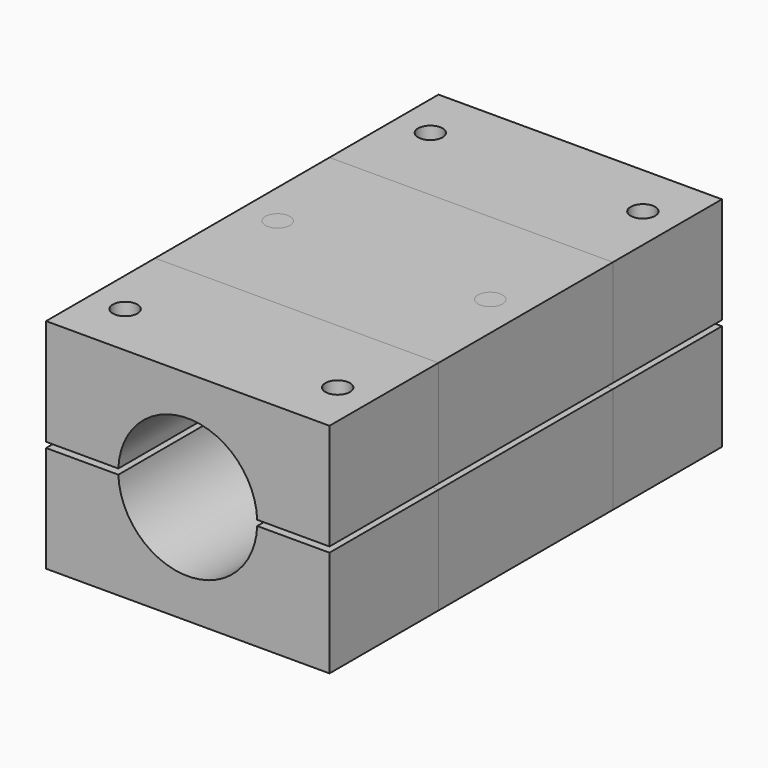
from build123d import *

# Parameters (mm, degrees)
SKETCH_W             = 52
SKETCH_H             = 90
PAD_DEPTH            = 40
SKETCH001_R          = 12.75
POCKET_DEPTH         = 45.001
POCKET_DEPTH_BACK    = -45.001
SKETCH002_W          = 60
SKETCH002_H          = 1
POCKET001_DEPTH      = 45.001
POCKET001_DEPTH_BACK = -45.001
SKETCH003_R          = 2.25
POCKET002_DEPTH      = 0.001
POCKET002_DEPTH_BACK = -40.001
SKETCH004_W          = 52
SKETCH004_H          = 40
PAD001_DEPTH         = 40
SKETCH005_R          = 12.75
POCKET003_DEPTH      = 20.001
POCKET003_DEPTH_BACK = -20.001
SKETCH006_W          = 60
SKETCH006_H          = 1
POCKET004_DEPTH      = 20.001
POCKET004_DEPTH_BACK = -20.001
SKETCH007_R          = 2.25
POCKET005_DEPTH      = 0.001
POCKET005_DEPTH_BACK = -40.001


with BuildPart() as body:
    # Sketch → Pad (new body)
    with BuildSketch(Plane.XY):
        Rectangle(SKETCH_W, SKETCH_H)
    extrude(amount=PAD_DEPTH)

    # Sketch001 → Pocket (cut, two sides)
    with BuildSketch(Plane.XZ) as pocket_sk:
        with Locations((0, 20)):
            Circle(SKETCH001_R)
    extrude(amount=-POCKET_DEPTH, mode=Mode.SUBTRACT)
    extrude(pocket_sk.sketch, amount=-POCKET_DEPTH_BACK, mode=Mode.SUBTRACT)

    # Sketch002 → Pocket001 (cut, two sides)
    with BuildSketch(Plane.XZ) as pocket001_sk:
        with Locations((0, 20)):
            Rectangle(SKETCH002_W, SKETCH002_H)
    extrude(amount=-POCKET001_DEPTH, mode=Mode.SUBTRACT)
    extrude(pocket001_sk.sketch, amount=-POCKET001_DEPTH_BACK, mode=Mode.SUBTRACT)

    # Sketch003 → Pocket002 (cut, two sides)
    with BuildSketch(Plane.XY) as pocket002_sk:
        with Locations((-19.5, 35)):
            Circle(SKETCH003_R)
        with Locations((19.5, 35)):
            Circle(SKETCH003_R)
        with Locations((19.5, -35)):
            Circle(SKETCH003_R)
        with Locations((-19.5, -35)):
            Circle(SKETCH003_R)
    extrude(amount=-POCKET002_DEPTH, mode=Mode.SUBTRACT)
    extrude(pocket002_sk.sketch, amount=-POCKET002_DEPTH_BACK, mode=Mode.SUBTRACT)


with BuildPart() as body001:
    # Sketch004 → Pad001 (new body)
    with BuildSketch(Plane.XY):
        Rectangle(SKETCH004_W, SKETCH004_H)
    extrude(amount=PAD001_DEPTH)

    # Sketch005 → Pocket003 (cut, two sides)
    with BuildSketch(Plane.XZ) as pocket003_sk:
        with Locations((0, 20)):
            Circle(SKETCH005_R)
    extrude(amount=-POCKET003_DEPTH, mode=Mode.SUBTRACT)
    extrude(pocket003_sk.sketch, amount=-POCKET003_DEPTH_BACK, mode=Mode.SUBTRACT)

    # Sketch006 → Pocket004 (cut, two sides)
    with BuildSketch(Plane.XZ) as pocket004_sk:
        with Locations((0, 20)):
            Rectangle(SKETCH006_W, SKETCH006_H)
    extrude(amount=-POCKET004_DEPTH, mode=Mode.SUBTRACT)
    extrude(pocket004_sk.sketch, amount=-POCKET004_DEPTH_BACK, mode=Mode.SUBTRACT)

    # Sketch007 → Pocket005 (cut, two sides)
    with BuildSketch(Plane.XY) as pocket005_sk:
        with Locations((-19.5, 0)):
            Circle(SKETCH007_R)
        with Locations((19.5, 0)):
            Circle(SKETCH007_R)
    extrude(amount=-POCKET005_DEPTH, mode=Mode.SUBTRACT)
    extrude(pocket005_sk.sketch, amount=-POCKET005_DEPTH_BACK, mode=Mode.SUBTRACT)


solid = Compound([body.part, body001.part])
